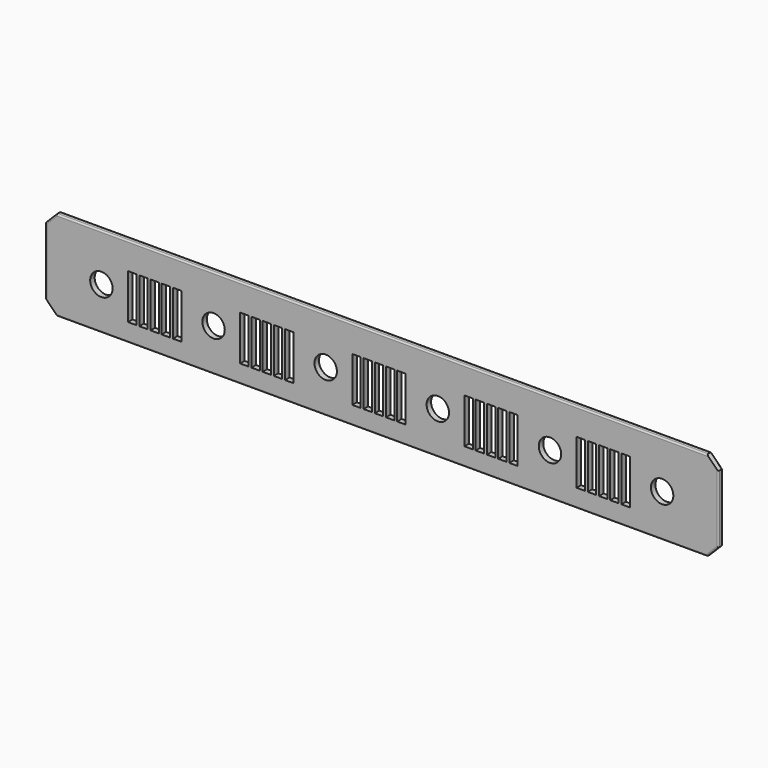
from build123d import *

# Parameters (mm, degrees)
F0_W     = 762
F0_H     = 101.6
F0_R     = 12.7
F1_DEPTH = 6.35
F2_W     = 9.525
F2_H     = 50.8
F3_DEPTH = 6.351
F4_SIZE  = 12.7
F5_R     = 1.6002


with BuildPart() as f1:
    # F0 (on Front) → F1 (new body)
    with BuildSketch(Plane.XZ):
        with Locations((19.4107126445, -71.7651652404)):
            Rectangle(F0_W, F0_H)
        with Locations((-298.0892873555, -74.4314715266)):
            Circle(F0_R, mode=Mode.SUBTRACT)
        with Locations((-171.0892873555, -74.4314715266)):
            Circle(F0_R, mode=Mode.SUBTRACT)
        with Locations((-44.0892873555, -74.4314715266)):
            Circle(F0_R, mode=Mode.SUBTRACT)
        with Locations((82.9107126445, -74.4314715266)):
            Circle(F0_R, mode=Mode.SUBTRACT)
        with Locations((209.9107126445, -74.4314715266)):
            Circle(F0_R, mode=Mode.SUBTRACT)
        with Locations((336.9107126445, -74.4314715266)):
            Circle(F0_R, mode=Mode.SUBTRACT)
    extrude(amount=F1_DEPTH)

    # F2 (on face) → F3 (cut, through all)
    with BuildSketch(Plane.XZ.offset(6.35)):
        with Locations((-263.1515873555, -76.7726096685)):
            Rectangle(F2_W, F2_H)
        with Locations((-250.4515873555, -76.7726096685)):
            Rectangle(F2_W, F2_H)
        with Locations((-237.7515873555, -76.7726096685)):
            Rectangle(F2_W, F2_H)
        with Locations((-225.0515873555, -76.7726096685)):
            Rectangle(F2_W, F2_H)
        with Locations((-212.3515873555, -76.7726096685)):
            Rectangle(F2_W, F2_H)
        with Locations((-136.1515873555, -76.7726096685)):
            Rectangle(F2_W, F2_H)
        with Locations((-123.4515873555, -76.7726096685)):
            Rectangle(F2_W, F2_H)
        with Locations((-110.7515873555, -76.7726096685)):
            Rectangle(F2_W, F2_H)
        with Locations((-98.0515873555, -76.7726096685)):
            Rectangle(F2_W, F2_H)
        with Locations((-85.3515873555, -76.7726096685)):
            Rectangle(F2_W, F2_H)
        with Locations((-9.1515873555, -76.7726096685)):
            Rectangle(F2_W, F2_H)
        with Locations((3.5484126445, -76.7726096685)):
            Rectangle(F2_W, F2_H)
        with Locations((16.2484126445, -76.7726096685)):
            Rectangle(F2_W, F2_H)
        with Locations((28.9484126445, -76.7726096685)):
            Rectangle(F2_W, F2_H)
        with Locations((41.6484126445, -76.7726096685)):
            Rectangle(F2_W, F2_H)
        with Locations((117.8484126445, -76.7726096685)):
            Rectangle(F2_W, F2_H)
        with Locations((130.5484126445, -76.7726096685)):
            Rectangle(F2_W, F2_H)
        with Locations((143.2484126445, -76.7726096685)):
            Rectangle(F2_W, F2_H)
        with Locations((155.9484126445, -76.7726096685)):
            Rectangle(F2_W, F2_H)
        with Locations((168.6484126445, -76.7726096685)):
            Rectangle(F2_W, F2_H)
        with Locations((244.8484126445, -76.7726096685)):
            Rectangle(F2_W, F2_H)
        with Locations((257.5484126445, -76.7726096685)):
            Rectangle(F2_W, F2_H)
        with Locations((270.2484126445, -76.7726096685)):
            Rectangle(F2_W, F2_H)
        with Locations((282.9484126445, -76.7726096685)):
            Rectangle(F2_W, F2_H)
        with Locations((295.6484126445, -76.7726096685)):
            Rectangle(F2_W, F2_H)
    extrude(amount=-F3_DEPTH, mode=Mode.SUBTRACT)

    # F4
    f4_edges = [f1.edges().sort_by_distance(p)[0] for p in [
        (-361.589287, -3.175, -20.965165),
        (-361.589287, -3.175, -122.565165),
        (400.410713, -3.175, -20.965165),
        (400.410713, -3.175, -122.565165),
    ]]
    chamfer(f4_edges, length=F4_SIZE)

    # F5
    f5_edges = [f1.edges().sort_by_distance(p)[0] for p in [
        (-355.239287, -6.35, -27.315165),
        (19.410713, -6.35, -20.965165),
        (19.410713, 0, -20.965165),
        (-355.239287, 0, -27.315165),
        (-361.589287, 0, -71.765165),
        (-361.589287, -6.35, -71.765165),
        (-355.239287, 0, -116.215165),
        (-355.239287, -6.35, -116.215165),
        (19.410713, 0, -122.565165),
        (19.410713, -6.35, -122.565165),
        (394.060713, 0, -27.315165),
        (400.410713, -6.35, -71.765165),
        (400.410713, 0, -71.765165),
        (394.060713, 0, -116.215165),
        (394.060713, -6.35, -116.215165),
    ]]
    fillet(f5_edges, radius=F5_R)


solid = f1.part
